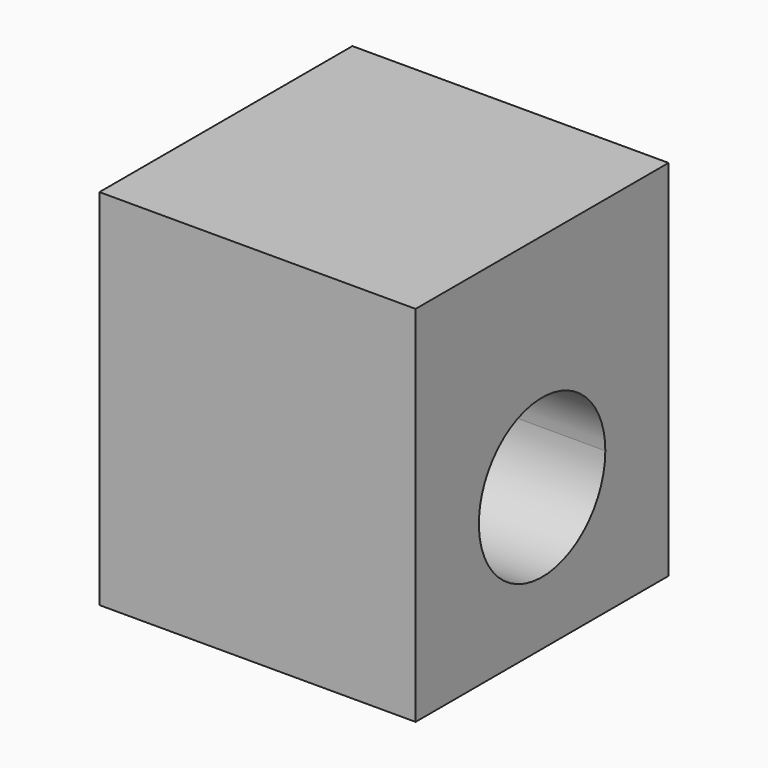
from build123d import *

# Parameters (mm, degrees)
F1_DEPTH = 25.4


with BuildPart() as f1:
    # F0 (on Right) → F1 (new body)
    with BuildSketch(Plane.YZ):
        with BuildLine():
            Line((3.81, -6.35), (12.7, -6.35))
            Line((12.7, -6.35), (12.7, 6.35))
            Line((12.7, 6.35), (-12.7, 6.35))
            Line((-12.7, 6.35), (-12.7, -6.35))
            Line((-12.7, -6.35), (-3.81, -6.35))
            ThreePointArc((-3.81, -6.35), (0, -5.08), (3.81, -6.35))
        make_face()
        with BuildLine():
            Line((12.7, -22.86), (12.7, -6.35))
            Line((12.7, -6.35), (3.81, -6.35))
            ThreePointArc((3.81, -6.35), (5.679613, -8.590194), (6.35, -11.43))
            ThreePointArc((6.35, -11.43), (-2.839806, -17.109613), (-3.81, -6.35))
            Line((-3.81, -6.35), (-12.7, -6.35))
            Line((-12.7, -6.35), (-12.7, -22.86))
            Line((-12.7, -22.86), (12.7, -22.86))
        make_face()
    extrude(amount=F1_DEPTH)


solid = f1.part
